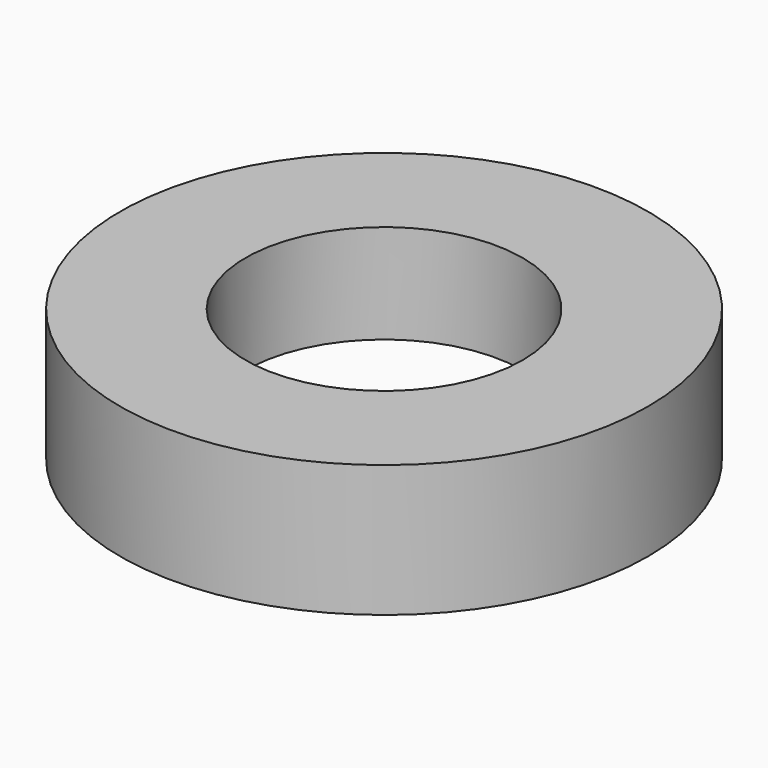
from build123d import *

# Parameters (mm, degrees)
CYLINDER014005855_R     = 7
CYLINDER014005855_DEPTH = 1
TUBE004_R               = 8
TUBE004_R_2             = 4.2
TUBE004_DEPTH           = 4


with BuildPart() as obj1:
    # Cylinder014005855 → Cylinder014005855 (new body)
    with BuildSketch(Plane.XY):
        Circle(CYLINDER014005855_R)
    extrude(amount=CYLINDER014005855_DEPTH)


with BuildPart() as ring:
    # Tube004 → Tube004 (new body)
    with BuildSketch(Plane.XY):
        Circle(TUBE004_R)
        Circle(TUBE004_R_2, mode=Mode.SUBTRACT)
    extrude(amount=TUBE004_DEPTH)

    # Cut009003003007: cut obj1
    add(obj1.part, mode=Mode.SUBTRACT)


solid = ring.part
